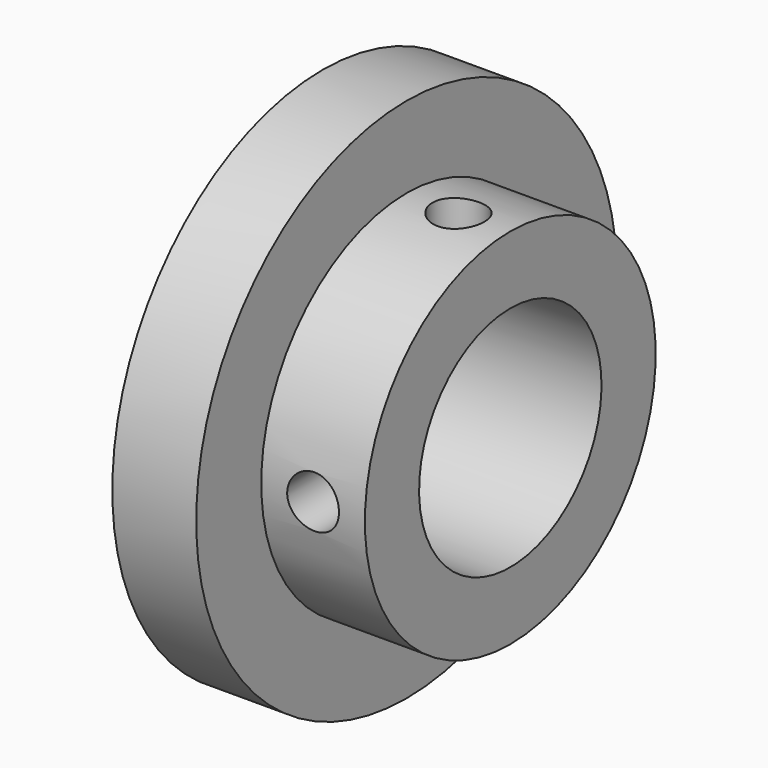
from build123d import *

# Parameters (mm, degrees)
F4_D     = 5
F4_DEPTH = 11.06
F4_TIP   = 1.5021515476
F7_D     = 5
F7_DEPTH = 11.06
F7_TIP   = 1.5021515476


with BuildPart() as f1:
    # F0 (on Front) → F1 (revolve)
    with BuildSketch(Plane.XZ):
        Polygon((0, 25.4), (0, 11.0109), (18.1102, 11.0109), (18.1102, 17.5514), (8.1026, 17.5514), (8.1026, 25.4), align=None)
    revolve(axis=Axis((12.2365328816, 0, 0), (1, 0, 0)))

    # F4
    with Locations(Plane.XZ.offset(17.5514)):
        with Locations((13.1064, 0)):
            Hole(F4_D / 2, depth=F4_DEPTH)
            with Locations((0, 0, -(F4_DEPTH + F4_TIP / 2))):  # 118° drill point
                Cone(0, F4_D / 2, F4_TIP, mode=Mode.SUBTRACT)

    # F7
    with Locations(Plane.XY.offset(17.5514)):
        with Locations((13.1064, 0)):
            Hole(F7_D / 2, depth=F7_DEPTH)
            with Locations((0, 0, -(F7_DEPTH + F7_TIP / 2))):  # 118° drill point
                Cone(0, F7_D / 2, F7_TIP, mode=Mode.SUBTRACT)


solid = f1.part
